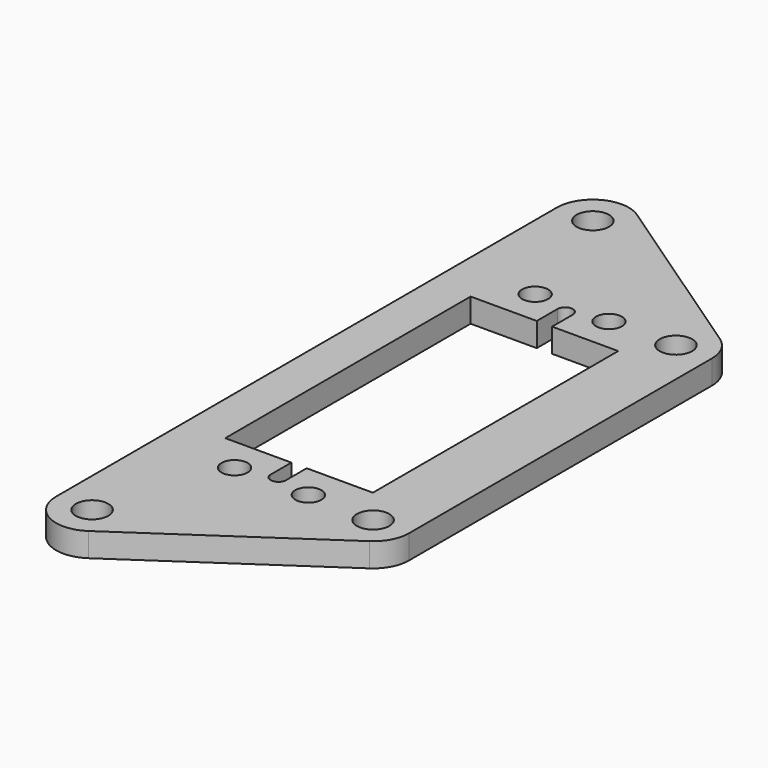
from build123d import *

# Parameters (mm, degrees)
F0_R     = 2.15265
F0_R_2   = 1.7272
F1_DEPTH = 3.175


with BuildPart() as f1:
    # F0 (on Top) → F1 (new body)
    with BuildSketch(Plane.XY):
        with BuildLine():
            Line((18.381172, -25.0825), (18.381172, 25.0825))
            ThreePointArc((18.381172, 25.0825), (17.827276, 27.311637), (16.294431, 29.022261))
            Line((16.294431, 29.022261), (-7.831306, 45.407687))
            ThreePointArc((-7.831306, 45.407687), (-12.736203, 45.676531), (-15.269566, 41.467926))
            Line((-15.269566, 41.467926), (-15.269566, -41.467926))
            ThreePointArc((-15.269566, -41.467926), (-12.736203, -45.676531), (-7.831306, -45.407687))
            Line((-7.831306, -45.407687), (16.294431, -29.022261))
            ThreePointArc((16.294431, -29.022261), (17.827276, -27.311637), (18.381172, -25.0825))
        make_face()
        with Locations((-10.507066, -41.467926)):
            Circle(F0_R, mode=Mode.SUBTRACT)
        with Locations((-4.8895, -24.892)):
            Circle(F0_R_2, mode=Mode.SUBTRACT)
        with BuildLine():
            Line((-1.016, -20.32), (-9.779, -20.32))
            Line((-9.779, -20.32), (-9.779, 20.32))
            Line((-9.779, 20.32), (-1.016, 20.32))
            Line((-1.016, 20.32), (-1.016, 23.749))
            ThreePointArc((-1.016, 23.749), (0, 24.765), (1.016, 23.749))
            Line((1.016, 23.749), (1.016, 20.32))
            Line((1.016, 20.32), (9.779, 20.32))
            Line((9.779, 20.32), (9.779, -20.32))
            Line((9.779, -20.32), (1.016, -20.32))
            Line((1.016, -20.32), (1.016, -23.749))
            ThreePointArc((1.016, -23.749), (0, -24.765), (-1.016, -23.749))
            Line((-1.016, -23.749), (-1.016, -20.32))
        make_face(mode=Mode.SUBTRACT)
        with Locations((4.8895, -24.892)):
            Circle(F0_R_2, mode=Mode.SUBTRACT)
        with Locations((13.618672, -25.0825)):
            Circle(F0_R, mode=Mode.SUBTRACT)
        with Locations((-10.507066, 41.467926)):
            Circle(F0_R, mode=Mode.SUBTRACT)
        with Locations((-4.8895, 24.892)):
            Circle(F0_R_2, mode=Mode.SUBTRACT)
        with Locations((4.8895, 24.892)):
            Circle(F0_R_2, mode=Mode.SUBTRACT)
        with Locations((13.618672, 25.0825)):
            Circle(F0_R, mode=Mode.SUBTRACT)
    extrude(amount=F1_DEPTH)


solid = f1.part
